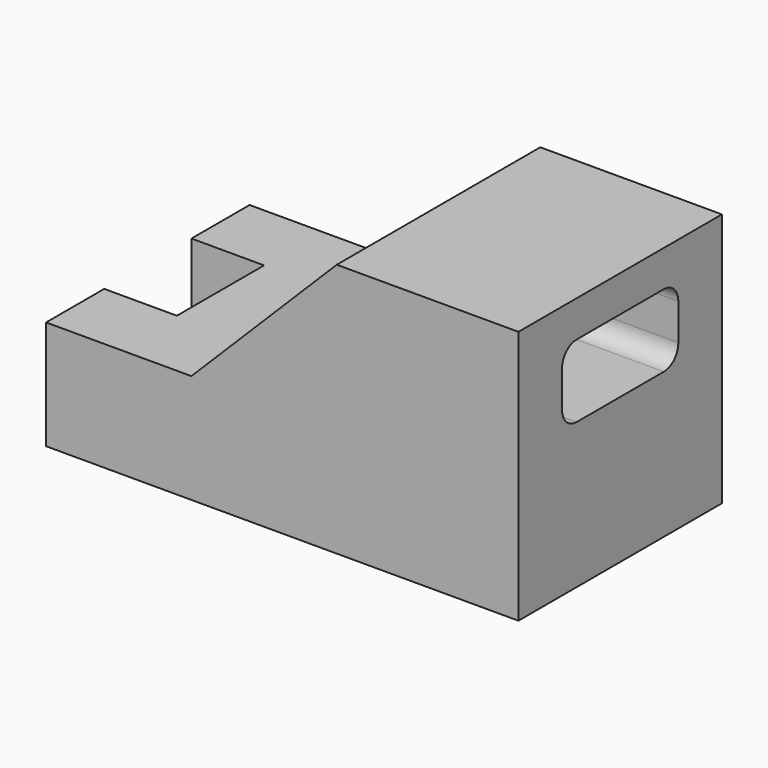
from build123d import *

# Parameters (mm, degrees)
F1_DEPTH = 700
F3_DEPTH = 1300.001
F4_W     = 200
F4_H     = 300
F5_DEPTH = 300.001


with BuildPart() as f1:
    # F0 (on Front) → F1 (new body)
    with BuildSketch(Plane.XZ):
        Polygon((650, 350), (150, 350), (-250, -50), (-650, -50), (-650, -350), (650, -350), align=None)
    extrude(amount=F1_DEPTH)

    # F2 (on face) → F3 (cut, through all)
    with BuildSketch(Plane.YZ.offset(650)):
        with BuildLine():
            Line((-200, 250), (-500, 250))
            ThreePointArc((-500, 250), (-535.355339, 235.355339), (-550, 200))
            Line((-550, 200), (-550, 100))
            ThreePointArc((-550, 100), (-535.355339, 64.644661), (-500, 50))
            Line((-500, 50), (-200, 50))
            ThreePointArc((-200, 50), (-164.644661, 64.644661), (-150, 100))
            Line((-150, 100), (-150, 200))
            ThreePointArc((-150, 200), (-164.644661, 235.355339), (-200, 250))
        make_face()
    extrude(amount=-F3_DEPTH, mode=Mode.SUBTRACT)

    # F4 (on face) → F5 (cut, through all)
    with BuildSketch(Plane.XY.offset(-50)):
        with Locations((-550, -350)):
            Rectangle(F4_W, F4_H)
    extrude(amount=-F5_DEPTH, mode=Mode.SUBTRACT)


solid = f1.part
